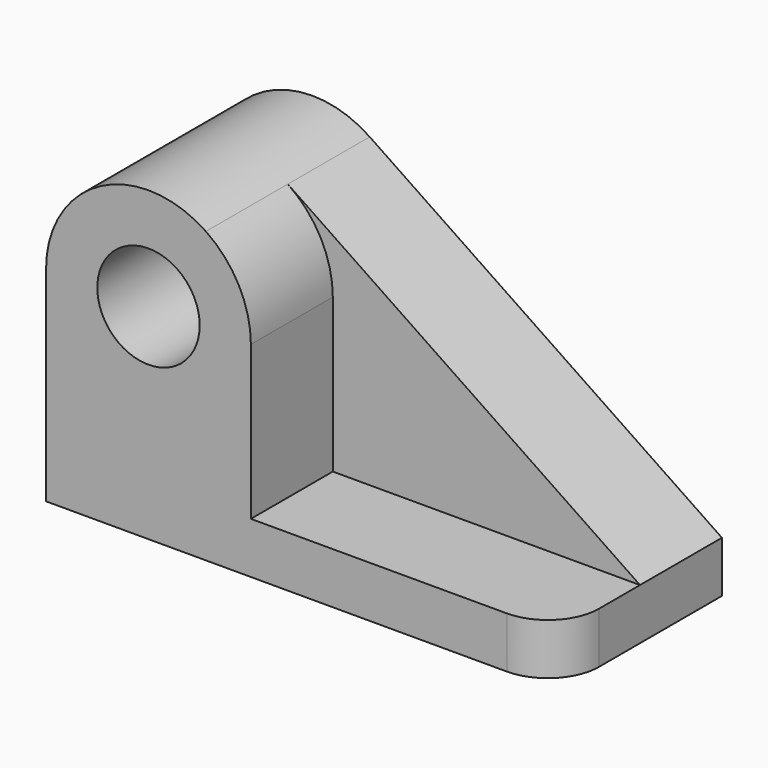
from build123d import *

# Parameters (mm, degrees)
F0_R     = 12.7
F1_DEPTH = 25.4
F2_R     = 12.7
F3_DEPTH = 25.4
F4_R     = 12.7


with BuildPart() as f1:
    # F0 (on Front) → F1 (new body)
    with BuildSketch(Plane.XZ):
        with BuildLine():
            Line((42.71152, -4.029809), (-44.650607, 55.104519))
            ThreePointArc((-44.650607, 55.104519), (-70.794739, 56.50679), (-84.28848, 34.070191))
            Line((-84.28848, 34.070191), (-84.28848, -16.729809))
            Line((-84.28848, -16.729809), (42.71152, -16.729809))
            Line((42.71152, -16.729809), (42.71152, -4.029809))
        make_face()
        with Locations((-58.88848, 34.070191)):
            Circle(F0_R, mode=Mode.SUBTRACT)
    extrude(amount=F1_DEPTH)

    # F2 (on face) → F3 (join)
    with BuildSketch(Plane.XZ.offset(25.4)):
        with BuildLine():
            Line((-33.48848, -4.029809), (-33.48848, 34.070191))
            ThreePointArc((-33.48848, 34.070191), (-36.451881, 45.97645), (-44.650607, 55.104519))
            ThreePointArc((-44.650607, 55.104519), (-70.794739, 56.50679), (-84.28848, 34.070191))
            Line((-84.28848, 34.070191), (-84.28848, -4.029809))
            Line((-84.28848, -4.029809), (-84.28848, -16.729809))
            Line((-84.28848, -16.729809), (42.71152, -16.729809))
            Line((42.71152, -16.729809), (42.71152, -4.029809))
            Line((42.71152, -4.029809), (-33.48848, -4.029809))
        make_face()
        with Locations((-58.88848, 34.070191)):
            Circle(F2_R, mode=Mode.SUBTRACT)
    extrude(amount=F3_DEPTH)

    # F4
    f4_edges = [f1.edges().sort_by_distance(p)[0] for p in [
        (42.71152, -50.8, -10.379809),
    ]]
    fillet(f4_edges, radius=F4_R)


solid = f1.part
